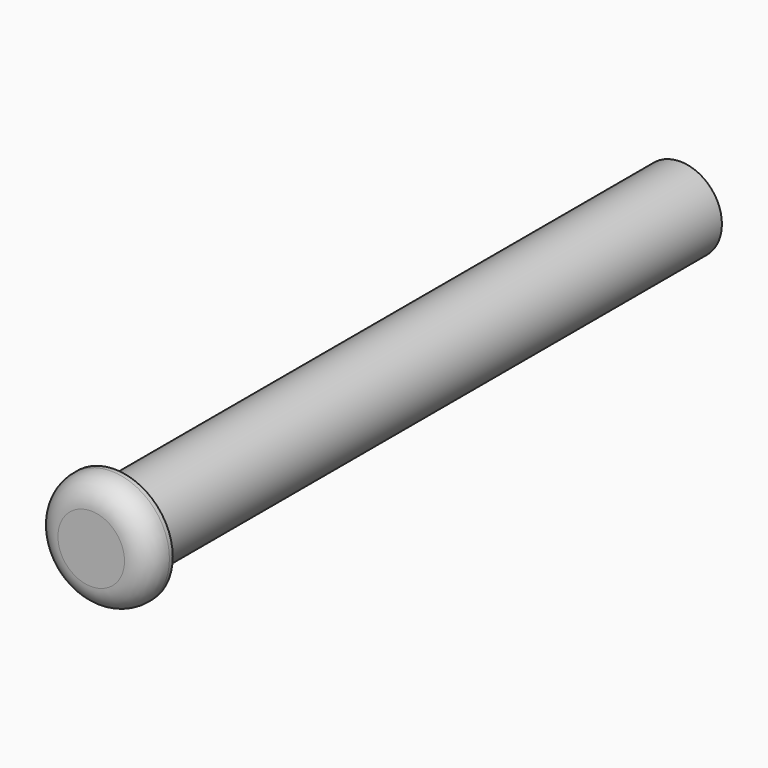
from build123d import *

# Parameters (mm, degrees)
F0_R     = 10
F1_DEPTH = 170
F2_R     = 14
F3_DEPTH = 7
F4_R     = 6


with BuildPart() as f1:
    # F0 (on Front) → F1 (new body)
    with BuildSketch(Plane.XZ):
        Circle(F0_R)
    extrude(amount=-F1_DEPTH)

    # F2 (on Front) → F3 (join)
    with BuildSketch(Plane.XZ):
        Circle(F2_R)
    extrude(amount=F3_DEPTH)

    # F4
    f4_edges = [f1.edges().sort_by_distance(p)[0] for p in [
        (-14, -7, 0),
    ]]
    fillet(f4_edges, radius=F4_R)


solid = f1.part
